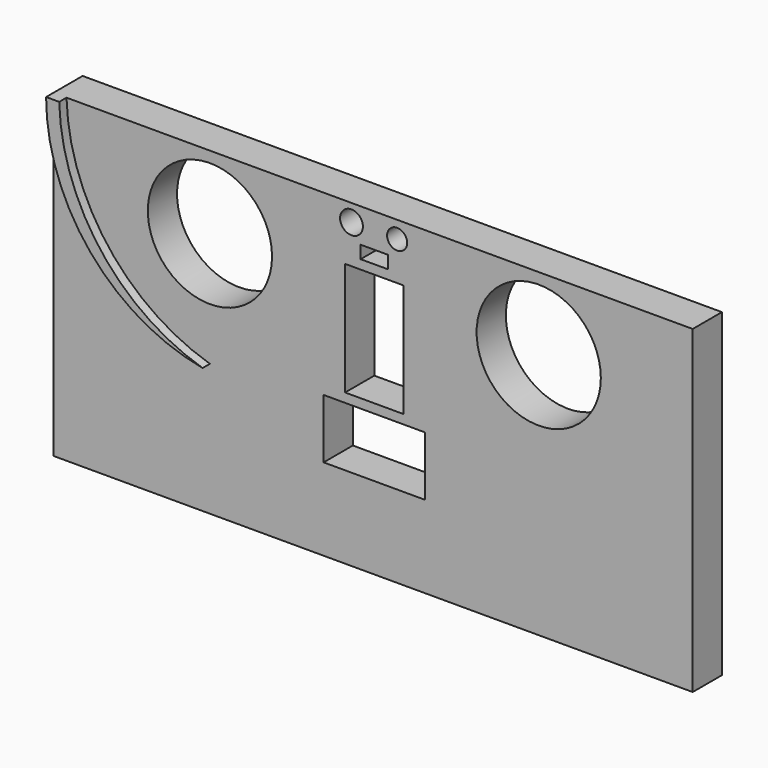
from build123d import *

# Parameters (mm, degrees)
F1_W     = 560
F1_H     = 350
F1_W_2   = 111
F1_H_2   = 65
F1_R     = 68
F1_R_2   = 12.5
F1_W_3   = 64
F1_H_3   = 124
F1_W_4   = 30
F1_H_4   = 14
F1_R_3   = 11
F2_DEPTH = 40
F1_W_5   = 70
F3_DEPTH = 40
F4_DEPTH = 270
F6_DEPTH = 10


with BuildPart() as f2:
    # F1 (on Front) → F2 (new body)
    with BuildSketch(Plane.XZ):
        with Locations((-1.403241, 30.5)):
            Rectangle(F1_W, F1_H)
        with Locations((0, -22)):
            Rectangle(F1_W_2, F1_H_2, mode=Mode.SUBTRACT)
        with Locations((-180, 125.5)):
            Circle(F1_R, mode=Mode.SUBTRACT)
        with Locations((-25, 186.794207)):
            Circle(F1_R_2, mode=Mode.SUBTRACT)
        with Locations((0, 82.5)):
            Rectangle(F1_W_3, F1_H_3, mode=Mode.SUBTRACT)
        with Locations((0, 161.5)):
            Rectangle(F1_W_4, F1_H_4, mode=Mode.SUBTRACT)
        with Locations((25, 186.794207)):
            Circle(F1_R_3, mode=Mode.SUBTRACT)
        with Locations((180, 125.5)):
            Circle(F1_R, mode=Mode.SUBTRACT)
    extrude(amount=F2_DEPTH)

    # F1 (on Front) → F3 (join)
    with BuildSketch(Plane.XZ):
        with Locations((-316.403241, 30.5)):
            Rectangle(F1_W_5, F1_H)
        with Locations((313.596759, 30.5)):
            Rectangle(F1_W_5, F1_H)
    extrude(amount=F3_DEPTH)

    # F1 (on Front) → F4 (cut)
    with BuildSketch(Plane.XZ):
        with Locations((-180, 125.5)):
            Circle(F1_R)
        with Locations((180, 125.5)):
            Circle(F1_R)
        with Locations((-25, 186.794207)):
            Circle(F1_R_2)
        with Locations((25, 186.794207)):
            Circle(F1_R_3)
        with Locations((0, 161.5)):
            Rectangle(F1_W_4, F1_H_4)
        with Locations((0, 82.5)):
            Rectangle(F1_W_3, F1_H_3)
        with Locations((0, -22)):
            Rectangle(F1_W_2, F1_H_2)
    extrude(amount=-F4_DEPTH, mode=Mode.SUBTRACT)

    # F5 (on face) → F6 (join)
    with BuildSketch(Plane.XZ.offset(40)):
        with BuildLine():
            Line((-337.034283, 205.5), (-351.403241, 205.5))
            ThreePointArc((-351.403241, 205.5), (-302.927817, 71.70041), (-180, 0))
            ThreePointArc((-180, 0), (-291.71711, 77.380009), (-337.034283, 205.5))
        make_face()
    extrude(amount=F6_DEPTH)


solid = f2.part
